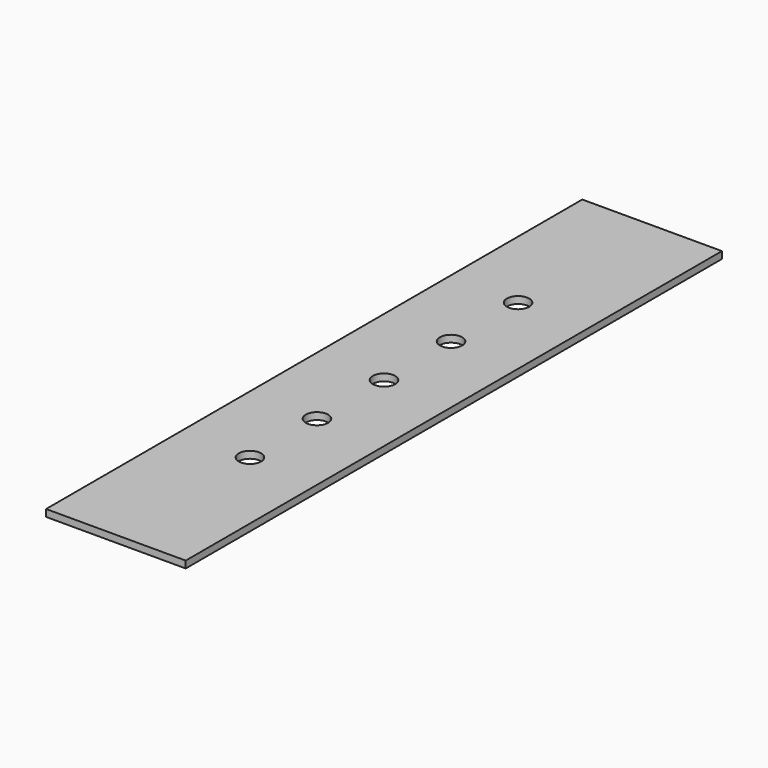
from build123d import *

# Parameters (mm, degrees)
F0_W     = 25
F0_H     = 120
F0_R     = 2
F1_DEPTH = 1.25
F2_R     = 2
F3_DEPTH = 25


with BuildPart() as f1:
    # F0 (on Top) → F1 (new body)
    with BuildSketch(Plane.XY):
        Rectangle(F0_W, F0_H)
        Circle(F0_R, mode=Mode.SUBTRACT)
    extrude(amount=F1_DEPTH)

    # F2 (on face) → F3 (cut)
    with BuildSketch(Plane.XY.offset(1.25)):
        with Locations((0, -30)):
            Circle(F2_R)
        with Locations((0, -15)):
            Circle(F2_R)
        with Locations((0, 15)):
            Circle(F2_R)
        with Locations((0, 30)):
            Circle(F2_R)
    extrude(amount=-F3_DEPTH, mode=Mode.SUBTRACT)


solid = f1.part
